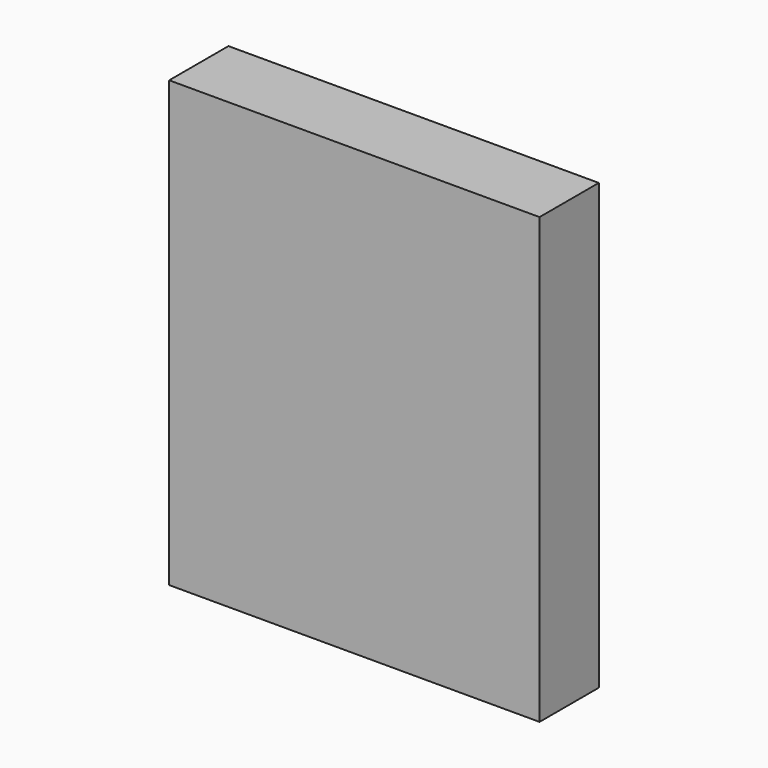
from build123d import *

# Parameters (mm, degrees)
F0_W     = 100
F0_H     = 20
F1_DEPTH = 120
F2_R     = 3
F3_DEPTH = 12
F4_R     = 3
F5_DEPTH = 12


with BuildPart() as f1:
    # F0 (on Top) → F1 (new body)
    with BuildSketch(Plane.XY):
        with Locations((50, 10)):
            Rectangle(F0_W, F0_H)
    extrude(amount=F1_DEPTH)

    # F2 (on face) → F3 (cut)
    with BuildSketch(Plane(origin=(0, 20, 0), x_dir=(-1, 0, 0), z_dir=(0, 1, 0))):
        with Locations((-50, 110)):
            Circle(F2_R)
    extrude(amount=-F3_DEPTH, mode=Mode.SUBTRACT)

    # F4 (on face) → F5 (cut)
    with BuildSketch(Plane(origin=(0, 20, 0), x_dir=(-1, 0, 0), z_dir=(0, 1, 0))):
        with Locations((-50, 10)):
            Circle(F4_R)
    extrude(amount=-F5_DEPTH, mode=Mode.SUBTRACT)


solid = f1.part
